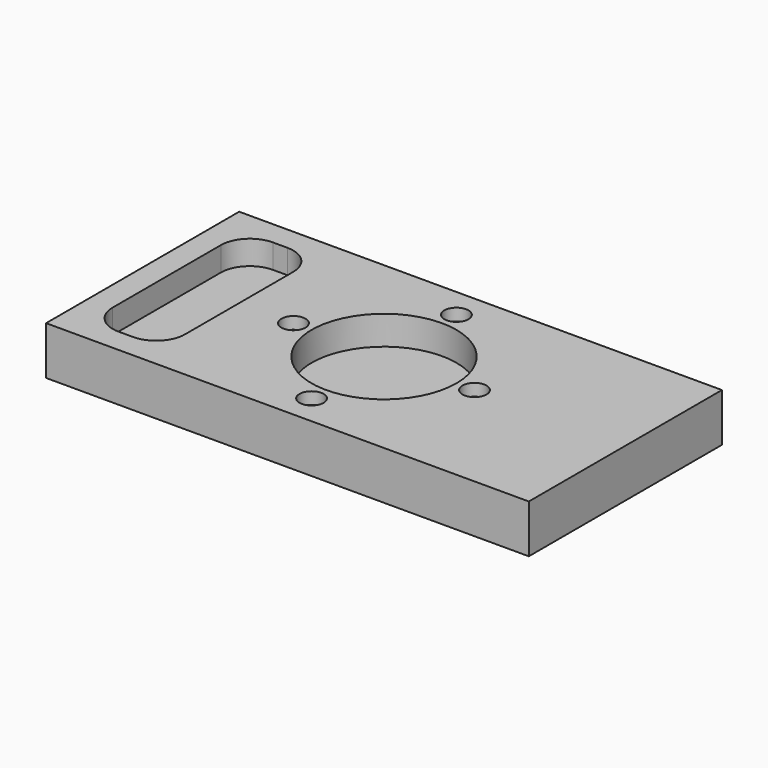
from build123d import *

# Parameters (mm, degrees)
F0_W     = 200
F0_H     = 100
F1_DEPTH = 8
F2_W     = 200
F2_H     = 100
F2_R     = 30
F3_DEPTH = 2
F4_W     = 200
F4_H     = 100
F4_R     = 30
F5_DEPTH = 5
F6_R     = 45
F6_R_2   = 5
F6_R_3   = 30
F7_DEPTH = 5
F8_DEPTH = 5


with BuildPart() as f1:
    # F0 (on Top) → F1 (new body)
    with BuildSketch(Plane.XY):
        Rectangle(F0_W, F0_H)
    extrude(amount=F1_DEPTH)

    # F2 (on face) → F3 (join)
    with BuildSketch(Plane.XY.offset(8)):
        Rectangle(F2_W, F2_H)
        Circle(F2_R, mode=Mode.SUBTRACT)
    extrude(amount=F3_DEPTH)

    # F4 (on face) → F5 (join)
    with BuildSketch(Plane.XY.offset(10)):
        Rectangle(F4_W, F4_H)
        with BuildLine():
            ThreePointArc((-90, 28), (-86.4852813742, 36.4852813742), (-78, 40))
            Line((-78, 40), (-72, 40))
            ThreePointArc((-72, 40), (-63.5147186258, 36.4852813742), (-60, 28))
            Line((-60, 28), (-60, -28))
            ThreePointArc((-60, -28), (-63.5147186258, -36.4852813742), (-72, -40))
            Line((-72, -40), (-78, -40))
            ThreePointArc((-78, -40), (-86.4852813742, -36.4852813742), (-90, -28))
            Line((-90, -28), (-90, 28))
        make_face(mode=Mode.SUBTRACT)
        Circle(F4_R, mode=Mode.SUBTRACT)
    extrude(amount=F5_DEPTH)

    # F6 (on face) → F7 (join)
    with BuildSketch(Plane.XY.offset(15)):
        Circle(F6_R)
        with Locations((0, -37.5)):
            Circle(F6_R_2, mode=Mode.SUBTRACT)
        with Locations((-37.5, 0)):
            Circle(F6_R_2, mode=Mode.SUBTRACT)
        Circle(F6_R_3, mode=Mode.SUBTRACT)
        with Locations((37.5, 0)):
            Circle(F6_R_2, mode=Mode.SUBTRACT)
        with Locations((0, 37.5)):
            Circle(F6_R_2, mode=Mode.SUBTRACT)
    extrude(amount=F7_DEPTH)

    # F8 (add): a face of the model
    f8_faces = [f1.faces().sort_by_distance(p)[0] for p in [
        (97.7639320225, 0, 15),
    ]]
    extrude(f8_faces, amount=F8_DEPTH)


solid = f1.part
